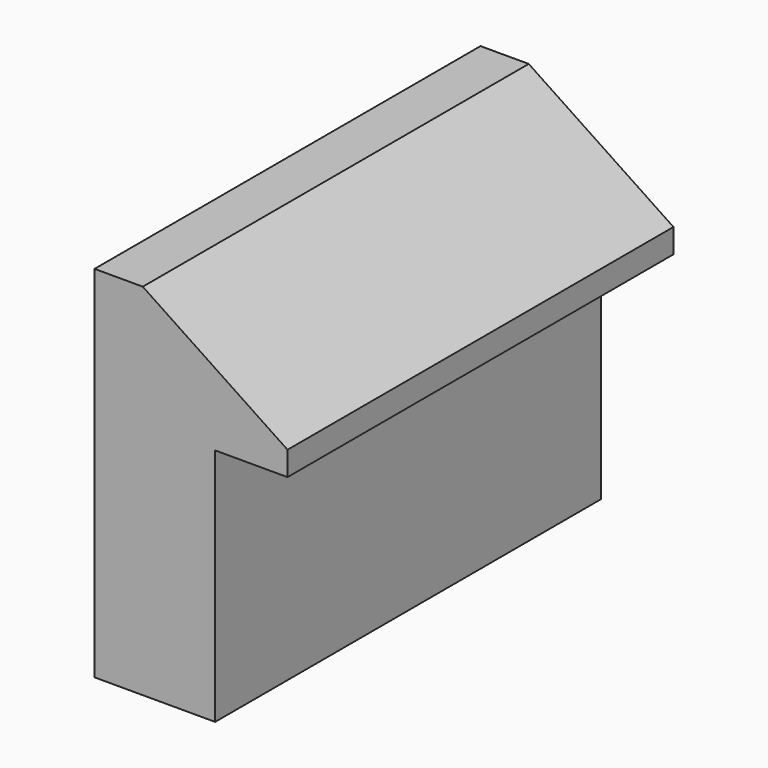
from build123d import *

# Parameters (mm, degrees)
F0_W     = 6.35
F0_H     = 3.175
F1_DEPTH = 1.5875
F2_W     = 6.35
F2_H     = 1.5875
F3_DEPTH = 2.54
F4_SIZE2 = 1.27
F4_SIZE  = 1.905


with BuildPart() as f1:
    # F0 (on Right) → F1 (new body)
    with BuildSketch(Plane.YZ):
        with Locations((3.175, 1.5875)):
            Rectangle(F0_W, F0_H)
    extrude(amount=F1_DEPTH)

    # F2 (on Right) → F3 (join)
    with BuildSketch(Plane.YZ):
        with Locations((3.175, 3.9399821234)):
            Rectangle(F2_W, F2_H)
    extrude(amount=F3_DEPTH)

    # F4
    f4_edges = [f1.edges().sort_by_distance(p)[0] for p in [
        (2.54, 3.175, 4.733732),
    ]]
    f4_side = f1.faces().sort_by_distance((1.27, 3.175, 4.733732))[0]
    chamfer(f4_edges, length=F4_SIZE, length2=F4_SIZE2, reference=f4_side)


solid = f1.part
